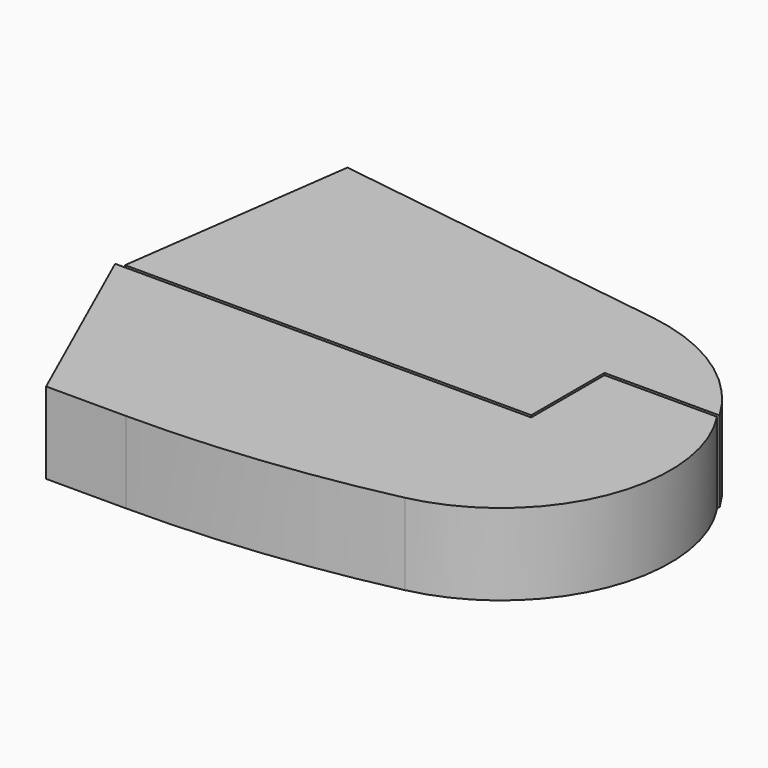
from build123d import *

# Parameters (mm, degrees)
F1_DEPTH      = 120
F1_DEPTH_BACK = 120
F2_DEPTH      = 120
F2_DEPTH_BACK = 120


with BuildPart() as f1:
    # F0 (on Top) → F1 (new body, two sides)
    with BuildSketch(Plane.XY) as f1_sk:
        with BuildLine():
            Line((176, 244.88128), (80, -455))
            Line((80, -455), (1278, -455))
            Line((1278, -455), (1278, -185))
            Line((1278, -185), (1617.338123, -185))
            ThreePointArc((1617.338123, -185), (1436.482665, 6.041757), (1190.783962, 100.051316))
            Line((1190.783962, 100.051316), (176, 244.88128))
        make_face()
    extrude(amount=F1_DEPTH)
    extrude(f1_sk.sketch, amount=-F1_DEPTH_BACK)


with BuildPart() as f2:
    # F0 (on Top) → F2 (new body, two sides)
    with BuildSketch(Plane.XY) as f2_sk:
        with BuildLine():
            Line((58, -1224), (316, -1801))
            Line((316, -1801), (551.186467, -1801))
            ThreePointArc((551.186467, -1801), (931.920408, -1780.230039), (1308.135589, -1718.166667))
            ThreePointArc((1308.135589, -1718.166667), (1663.582847, -1417.32577), (1616.922055, -954))
            Line((1616.922055, -954), (1285, -954))
            Line((1285, -954), (1285, -1224))
            Line((1285, -1224), (58, -1224))
        make_face()
    extrude(amount=F2_DEPTH)
    extrude(f2_sk.sketch, amount=-F2_DEPTH_BACK)


with BuildPart() as f2_1:
    # F3: moved
    add(f2.part.moved(Location((0, 760, 0))))


solid = Compound([f1.part, f2_1.part])
